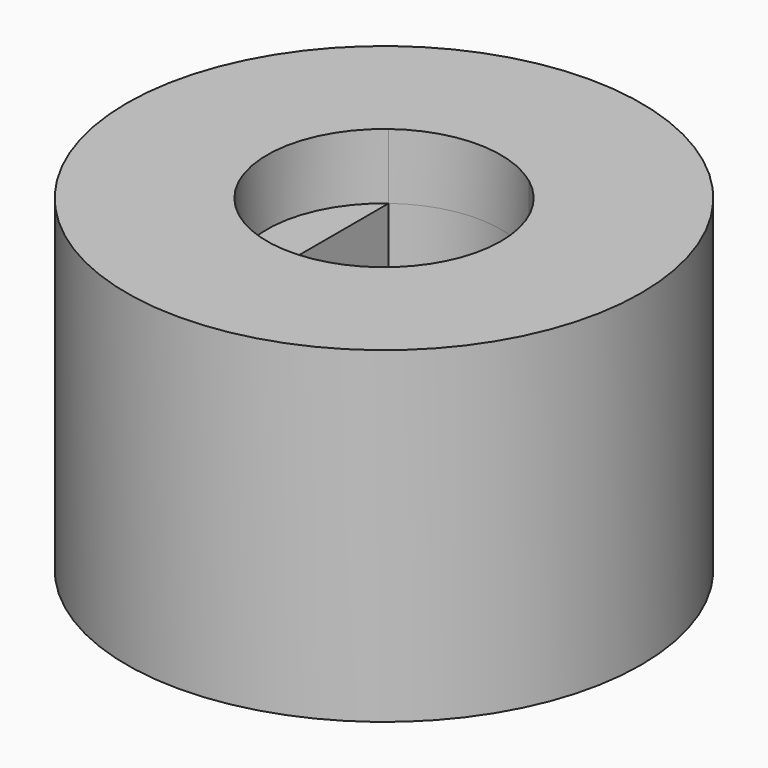
from build123d import *

# Parameters (mm, degrees)
F0_R     = 5.5
F1_DEPTH = 7
F2_R     = 2.5
F3_DEPTH = 1.4


with BuildPart() as f1:
    # F0 (on Top) → F1 (new body)
    with BuildSketch(Plane.XY):
        Circle(F0_R)
        with BuildLine():
            ThreePointArc((1.5, 2), (2.2360679775, 1.1180339887), (2.5, 0))
            ThreePointArc((2.5, 0), (2.2360679775, -1.1180339887), (1.5, -2))
            ThreePointArc((1.5, -2), (0, -2.5), (-1.5, -2))
            ThreePointArc((-1.5, -2), (-2.5, 0), (-1.5, 2))
            ThreePointArc((-1.5, 2), (0, 2.5), (1.5, 2))
        make_face(mode=Mode.SUBTRACT)
        with BuildLine():
            Line((-1.5, -2), (-1.5, 2))
            ThreePointArc((-1.5, 2), (-2.5, 0), (-1.5, -2))
        make_face()
        with BuildLine():
            ThreePointArc((1.5, -2), (2.2360679775, -1.1180339887), (2.5, 0))
            ThreePointArc((2.5, 0), (2.2360679775, 1.1180339887), (1.5, 2))
            Line((1.5, 2), (1.5, -2))
        make_face()
    extrude(amount=F1_DEPTH)

    # F2 (on face) → F3 (cut)
    with BuildSketch(Plane.XY.offset(7)):
        Circle(F2_R)
    extrude(amount=-F3_DEPTH, mode=Mode.SUBTRACT)


solid = f1.part
